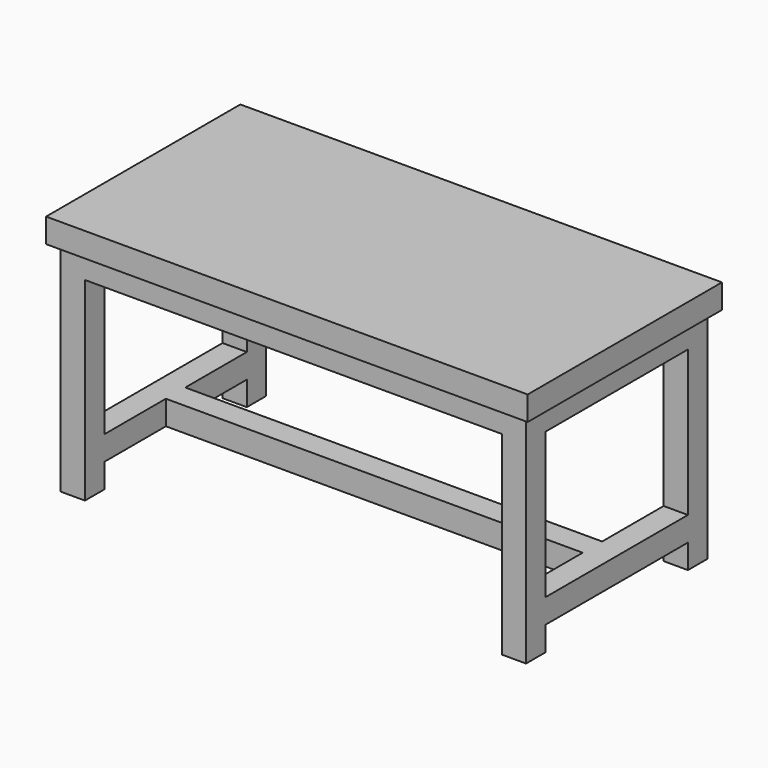
from build123d import *

# Parameters (mm, degrees)
F0_W      = 755.65
F0_H      = 381
F1_DEPTH  = 38.1
F2_W      = 730.25
F2_H      = 355.6
F2_W_2    = 654.05
F2_H_2    = 279.4
F3_DEPTH  = 38.1
F4_W      = 38.1
F4_H      = 38.1
F5_DEPTH  = 304.8
F6_W      = 355.6
F6_H      = 38.1
F7_DEPTH  = 38.1
F8_W      = 355.6
F8_H      = 38.1
F9_DEPTH  = 38.1
F10_W     = 730.25
F10_H     = 38.1
F11_DEPTH = 38.1


with BuildPart() as f1:
    # F0 (on Top) → F1 (new body)
    with BuildSketch(Plane.XY):
        Rectangle(F0_W, F0_H)
    extrude(amount=F1_DEPTH)

    # F2 (on face) → F3 (join)
    with BuildSketch(Plane(origin=(0, 0, 0), x_dir=(1, 0, 0), z_dir=(0, 0, -1))):
        Rectangle(F2_W, F2_H)
        Rectangle(F2_W_2, F2_H_2, mode=Mode.SUBTRACT)
    extrude(amount=F3_DEPTH)

    # F4 (on face) → F5 (join)
    with BuildSketch(Plane(origin=(0, 0, -38.1), x_dir=(1, 0, 0), z_dir=(0, 0, -1))):
        with Locations((-346.075, 158.75)):
            Rectangle(F4_W, F4_H)
        with Locations((346.075, 158.75)):
            Rectangle(F4_W, F4_H)
        with Locations((346.075, -158.75)):
            Rectangle(F4_W, F4_H)
        with Locations((-346.075, -158.75)):
            Rectangle(F4_W, F4_H)
    extrude(amount=F5_DEPTH)

    # F6 (on face) → F7 (join)
    with BuildSketch(Plane(origin=(-365.125, 0, 0), x_dir=(0, -1, 0), z_dir=(-1, 0, 0))):
        with Locations((0, -285.75)):
            Rectangle(F6_W, F6_H)
    extrude(amount=-F7_DEPTH)

    # F8 (on face) → F9 (join)
    with BuildSketch(Plane.YZ.offset(365.125)):
        with Locations((0, -285.75)):
            Rectangle(F8_W, F8_H)
    extrude(amount=-F9_DEPTH)

    # F10 (on face) → F11 (join)
    with BuildSketch(Plane(origin=(0, 0, -304.8), x_dir=(1, 0, 0), z_dir=(0, 0, -1))):
        Rectangle(F10_W, F10_H)
    extrude(amount=-F11_DEPTH)


solid = f1.part
